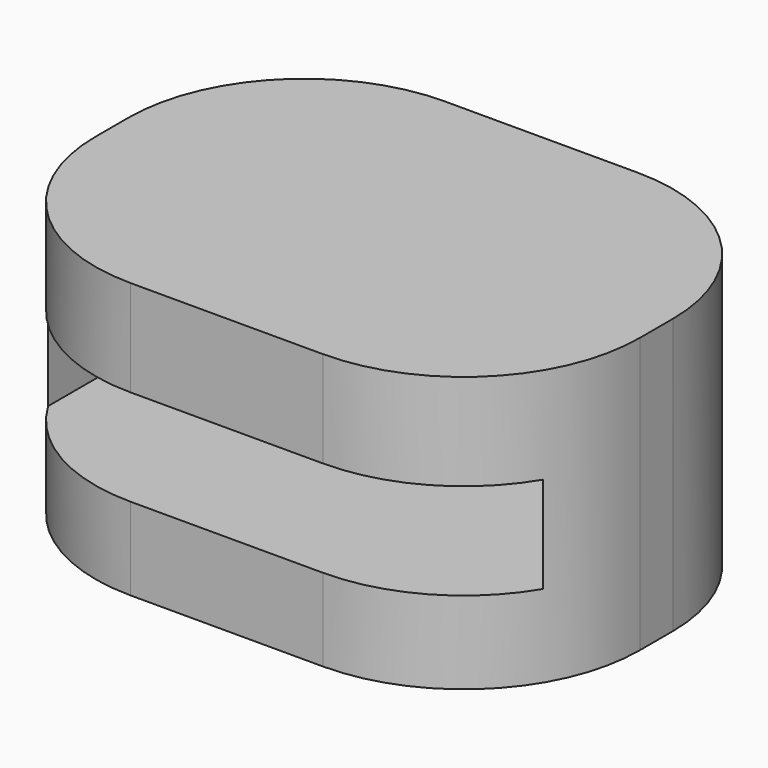
from build123d import *

# Parameters (mm, degrees)
PAD_DEPTH       = 100
POCKET_DEPTH    = 35
SKETCH002_W     = 180
SKETCH002_H     = 35
POCKET001_DEPTH = 77
POCKET002_DEPTH = 27


with BuildPart() as part:
    # Sketch001 → Pad (new body)
    with BuildSketch(Plane.XY):
        with BuildLine():
            ThreePointArc((99, 7.5), (80.254858, 52.75481), (35.000067, 71.5))
            Line((35.000067, 71.5), (-35, 71.5))
            ThreePointArc((-35, 71.5), (-80.254834, 52.754834), (-99, 7.5))
            Line((-99, 7.5), (-99, -7.5))
            ThreePointArc((-99, -7.5), (-80.254834, -52.754834), (-35, -71.5))
            Line((-35, -71.5), (35.000001, -71.5))
            ThreePointArc((35.000001, -71.5), (80.254834, -52.754834), (99, -7.5))
            Line((99, 7.5), (99, -7.5))
        make_face()
    extrude(amount=PAD_DEPTH)

    # Sketch → Pocket (cut)
    with BuildSketch(Plane.XY.offset(30)):
        with BuildLine():
            ThreePointArc((89, 7.5), (73.183766, 45.683767), (34.999999, 61.5))
            Line((34.999999, 61.5), (-35, 61.5))
            ThreePointArc((-35, 61.5), (-73.183766, 45.683766), (-89, 7.5))
            Line((-89, 7.5), (-89, -7.5))
            ThreePointArc((-89, -7.5), (-73.183766, -45.683766), (-35, -61.5))
            Line((-35, -61.5), (35, -61.5))
            ThreePointArc((35, -61.5), (73.183766, -45.683766), (89, -7.5))
            Line((89, 7.5), (89, -7.5))
        make_face()
    extrude(amount=POCKET_DEPTH, mode=Mode.SUBTRACT)

    # Sketch002 → Pocket001 (cut)
    with BuildSketch(Plane.XZ.offset(80)):
        with Locations((0, 47.5)):
            Rectangle(SKETCH002_W, SKETCH002_H)
    extrude(amount=-POCKET001_DEPTH, mode=Mode.SUBTRACT)

    # Sketch003 → Pocket002 (cut)
    with BuildSketch(Plane.XY):
        with BuildLine():
            ThreePointArc((96, 7.5), (78.133514, 50.633513), (35.000001, 68.5))
            Line((35.000001, 68.5), (-35, 68.5))
            ThreePointArc((-35, 68.5), (-78.133514, 50.633514), (-96, 7.5))
            Line((-96, 7.5), (-96, -7.5))
            ThreePointArc((-96, -7.5), (-78.133514, -50.633514), (-35, -68.5))
            Line((-35, -68.5), (34.999897, -68.5))
            ThreePointArc((34.999897, -68.5), (78.133477, -50.63355), (96, -7.5))
            Line((96, 7.5), (96, -7.5))
        make_face()
    extrude(amount=POCKET002_DEPTH, mode=Mode.SUBTRACT)


solid = part.part
